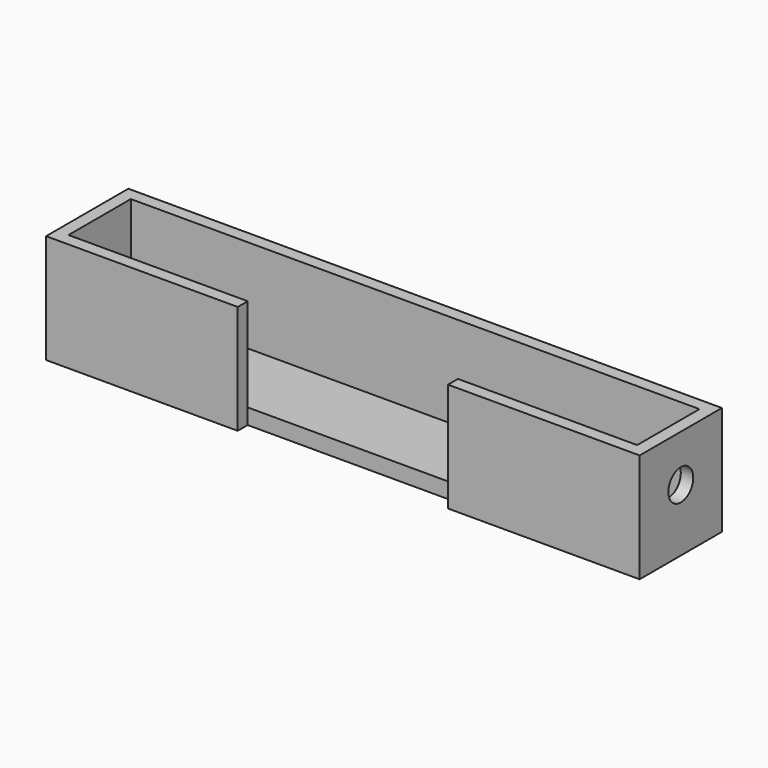
from build123d import *

# Parameters (mm, degrees)
SKETCH_W     = 73
SKETCH_H     = 10
PAD_DEPTH    = 2
PAD001_DEPTH = 14
SKETCH002_R  = 2
POCKET_DEPTH = 76.201


with BuildPart() as part:
    # Sketch → Pad (new body)
    with BuildSketch(Plane.XY):
        with Locations((0, 5)):
            Rectangle(SKETCH_W, SKETCH_H)
    extrude(amount=PAD_DEPTH)

    # Sketch001 → Pad001 (new body)
    with BuildSketch(Plane(origin=(0, 0, 0), x_dir=(1, 0, 0), z_dir=(0, 0, -1))):
        Polygon((13.5, 1.6), (13.5, 0), (36.5, 0), (36.5, -10), (0, -10), (0, -11.6), (38.1, -11.6), (38.1, 1.6), align=None)
    pad001 = extrude(amount=-PAD001_DEPTH)

    # Mirrored: Pad001 across Sketch001 V_Axis
    add(pad001.mirror(Plane(origin=(0, 0, 0), x_dir=(0, 0, -1), z_dir=(1, 0, 0))))

    # Sketch002 → Pocket (cut, through all)
    with BuildSketch(Plane.YZ.offset(38.1)):
        with Locations((5, 8)):
            Circle(SKETCH002_R)
    extrude(amount=-POCKET_DEPTH, mode=Mode.SUBTRACT)


solid = part.part
